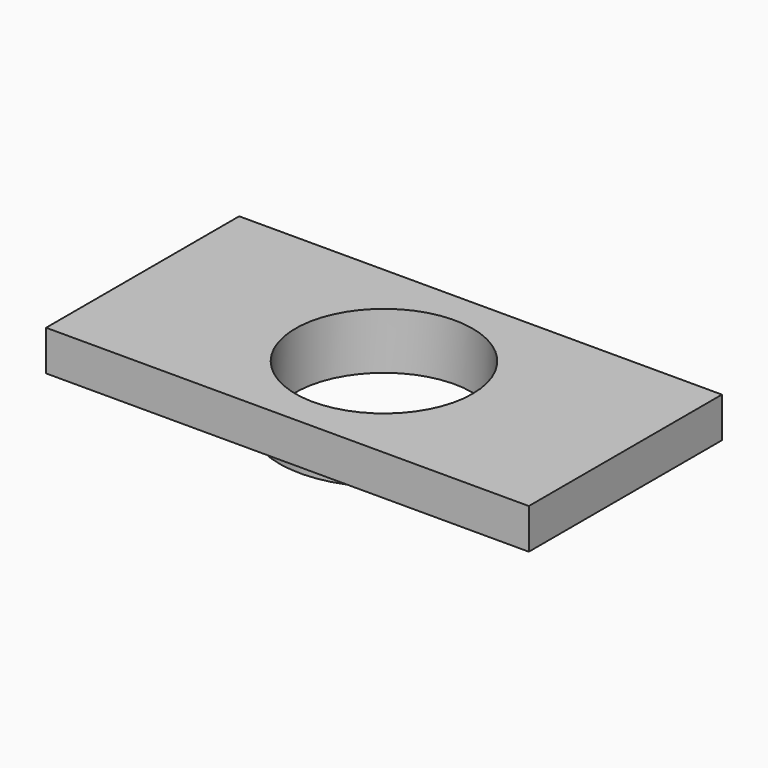
from build123d import *

# Parameters (mm, degrees)
CYLINDER013_R     = 11
CYLINDER013_DEPTH = 7
BOX002_W          = 60
BOX002_H          = 30
BOX002_DEPTH      = 5
CYLINDER012_R     = 13
CYLINDER012_DEPTH = 7


with BuildPart() as rear_bearing_hole:
    # Cylinder013 → Cylinder013 (new body)
    with BuildSketch(Plane.XY.offset(64)):
        Circle(CYLINDER013_R)
    extrude(amount=CYLINDER013_DEPTH)


with BuildPart() as rear_bearing_wall:
    # Box002 → Box002 (new body)
    with BuildSketch(Plane(origin=(-30, -15, 66), x_dir=(1, 0, 0), z_dir=(0, 0, 1))):
        with Locations((30, 15)):
            Rectangle(BOX002_W, BOX002_H)
    extrude(amount=BOX002_DEPTH)


with BuildPart() as rear_pulley_wall:
    # Cylinder012 → Cylinder012 (new body)
    with BuildSketch(Plane.XY.offset(64)):
        Circle(CYLINDER012_R)
    extrude(amount=CYLINDER012_DEPTH)

    # Fusion: union rear_bearing_wall
    add(rear_bearing_wall.part)

    # Cut009: cut rear_bearing_hole
    add(rear_bearing_hole.part, mode=Mode.SUBTRACT)


with BuildPart() as rear_pulley_wall_1:
    # Cut009 placement: moved
    add(rear_pulley_wall.part.moved(Location((0, 0, -3))))


solid = rear_pulley_wall_1.part
